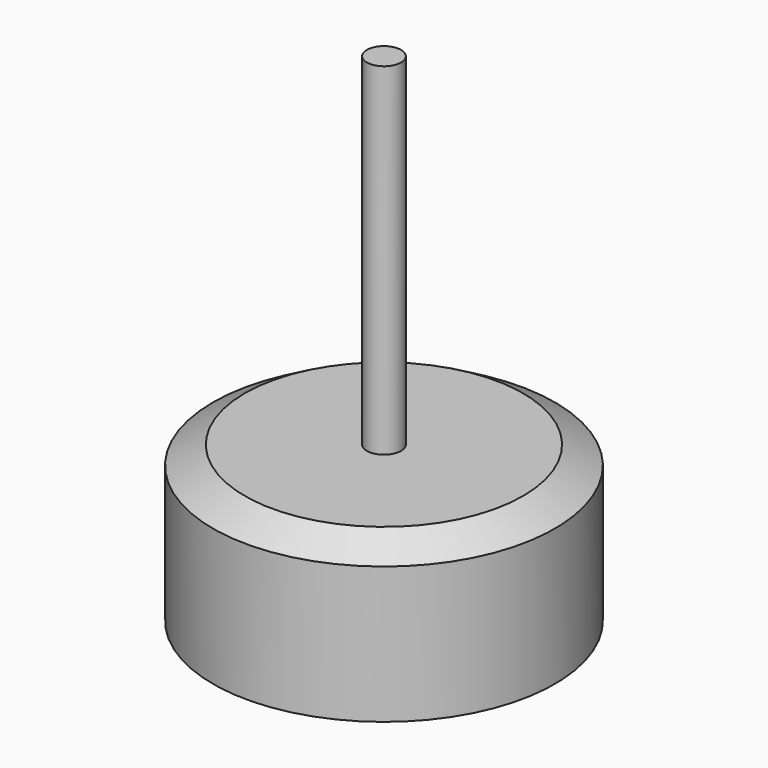
from build123d import *

# Parameters (mm, degrees)
F0_W   = 1
F0_H   = 20
F0_H_2 = 3
F0_H_3 = 1.0746234533


with BuildPart() as f1:
    # F0 (on Front) → F1 (revolve)
    with BuildSketch(Plane.XZ):
        with Locations((-21.0513077103, 19.0746234533)):
            Rectangle(F0_W, F0_H)
        Polygon((-21.5513077103, 8), (-30.5513077103, 8), (-30.5513077103, 0), (-21.5513077103, 0), (-21.5513077103, 5), align=None)
        Polygon((-28.6900052902, 9.0746234533), (-30.5513077103, 8), (-21.5513077103, 8), (-21.5513077103, 9.0746234533), align=None)
        with Locations((-21.0513077103, 6.5)):
            Rectangle(F0_W, F0_H_2)
        with Locations((-21.0513077103, 8.5373117267)):
            Rectangle(F0_W, F0_H_3)
    revolve(axis=Axis((-20.5513077103, 0, 19.0746234533), (0, 0, 1)))


solid = f1.part
